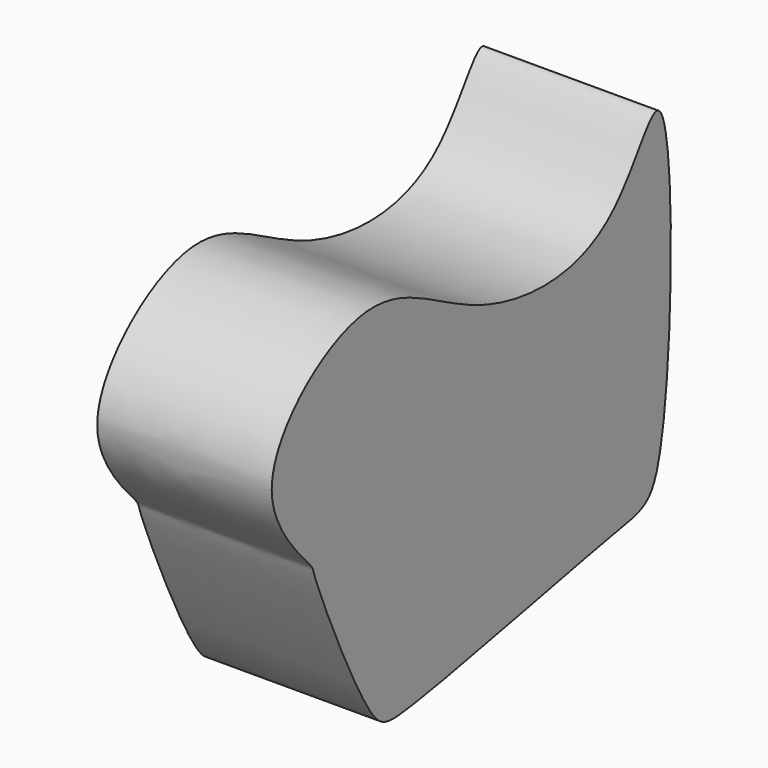
from build123d import *

# Parameters (mm, degrees)
F1_DEPTH = 25.4


with BuildPart() as f1:
    # F0 (on Right) → F1 (new body)
    with BuildSketch(Plane.YZ):
        with BuildLine():
            add(Edge.make_bspline(
                [(-54.5208528638, 18.663238734), (-54.5140961938, 25.7535313313), (-36.522355138, 40.7716535541), (-18.6593720464, 24.682480321), (7.9028798125, 22.5995590492), (19.2973655714, 53.5595018668), (18.4258593258, -11.1182544579), (9.0574308416, -11.6447698133), (-30.9523412656, -20.4605486052), (-36.8751391634, -19.2963011495), (-47.227291653, 4.8624884462), (-46.8164922655, 5.8658136932), (-54.5262283939, 13.0222822119), (-54.5208528638, 18.663238734)],
                knots=[0, 0, 0, 0, 0.1023620556, 0.2027162037, 0.3077343996, 0.3866244448, 0.5304115567, 0.5968971786, 0.7306776733, 0.7859923413, 0.890630613, 0.9185619074, 1, 1, 1, 1], degree=3))
        make_face()
    extrude(amount=F1_DEPTH)


solid = f1.part
